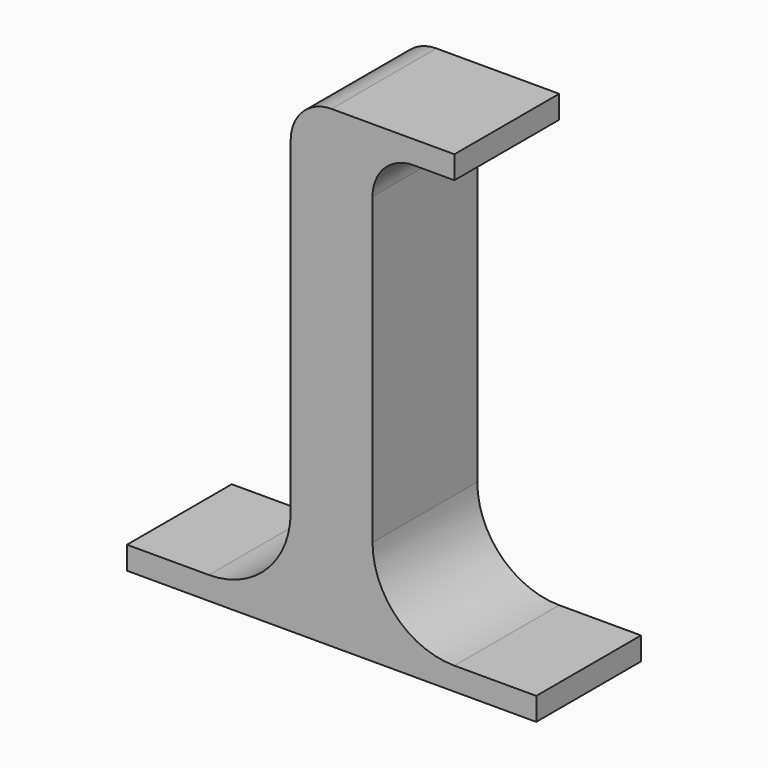
from build123d import *

# Parameters (mm, degrees)
F0_W     = 20
F0_H     = 2.8
F1_DEPTH = 16
F2_R     = 10
F3_R     = 5


with BuildPart() as f1:
    # F0 (on Front) → F1 (new body)
    with BuildSketch(Plane.XZ):
        Polygon((-30, 0), (0, 0), (0, 2.8), (-10, 2.8), (-30, 2.8), align=None)
        with Locations((10, 1.4)):
            Rectangle(F0_W, F0_H)
        Polygon((-10, 2.8), (0, 2.8), (0, 55), (10, 55), (10, 57.8), (-10, 57.8), align=None)
    extrude(amount=F1_DEPTH)

    # F2
    f2_edges = [f1.edges().sort_by_distance(p)[0] for p in [
        (-10, -8, 2.8),
        (0, -8, 2.8),
    ]]
    fillet(f2_edges, radius=F2_R)

    # F3
    f3_edges = [f1.edges().sort_by_distance(p)[0] for p in [
        (-10, -8, 57.8),
        (0, -8, 55),
    ]]
    fillet(f3_edges, radius=F3_R)


solid = f1.part
